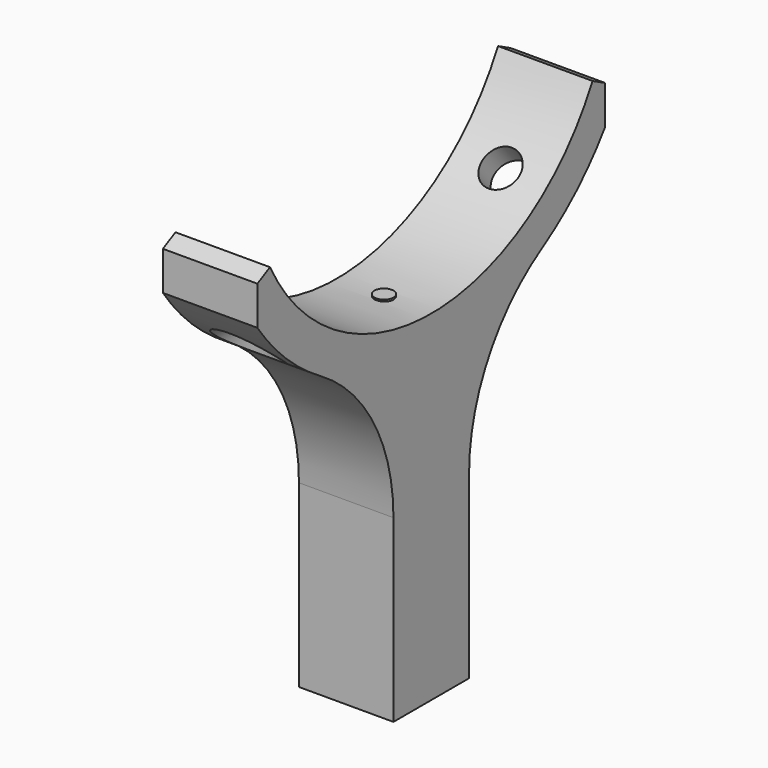
from build123d import *

# Parameters (mm, degrees)
F1_DEPTH       = 5
F5_D           = 2
F5_DEPTH       = 5
F5_CSINK_D     = 3.5
F5_CSINK_ANGLE = 90
F8_D           = 2
F8_DEPTH       = 5
F8_CSINK_D     = 3.5
F8_CSINK_ANGLE = 90
F10_R          = 0.5
F11_DEPTH      = 0.1


with BuildPart() as f1:
    # F0 (on Right) → F1 (new body)
    with BuildSketch(Plane.YZ):
        with BuildLine():
            ThreePointArc((2.5, -20.487801), (3.779813, -15.593076), (7.291667, -11.951217))
            ThreePointArc((7.291667, -11.951217), (9.602899, -10.187459), (11.5, -7.98436))
            Line((11.5, -7.98436), (11.5, -5.930411))
            Line((11.5, -5.930411), (10.665365, -5.5))
            ThreePointArc((10.665365, -5.5), (0, -12), (-10.665365, -5.5))
            Line((-10.665365, -5.5), (-11.5, -5.930411))
            Line((-11.5, -5.930411), (-11.5, -7.98436))
            ThreePointArc((-11.5, -7.98436), (-9.602899, -10.187459), (-7.291667, -11.951217))
            ThreePointArc((-7.291667, -11.951217), (-3.779813, -15.593076), (-2.5, -20.487801))
            Line((-2.5, -20.487801), (-2.5, -30))
            Line((-2.5, -30), (2.5, -30))
            Line((2.5, -30), (2.5, -20.487801))
        make_face()
    extrude(amount=F1_DEPTH)

    # F5
    with Locations(Plane(origin=(0, 8.999027, -10.724622), x_dir=(1, 0, 0), z_dir=(0, 0.642788, -0.766044))):
        with Locations((2.5, 0)):
            CounterSinkHole(F5_D / 2, F5_CSINK_D / 2, depth=F5_DEPTH, counter_sink_angle=F5_CSINK_ANGLE)

    # F8
    with Locations(Plane(origin=(0, -8.999027, -10.724622), x_dir=(1, 0, 0), z_dir=(0, -0.642788, -0.766044))):
        with Locations((2.5, 0)):
            CounterSinkHole(F8_D / 2, F8_CSINK_D / 2, depth=F8_DEPTH, counter_sink_angle=F8_CSINK_ANGLE)

    # F10 (on offset) → F11 (join)
    with BuildSketch(Plane.XY.offset(-12)):
        with Locations((2.5, 0)):
            Circle(F10_R)
    extrude(amount=F11_DEPTH)


solid = f1.part
